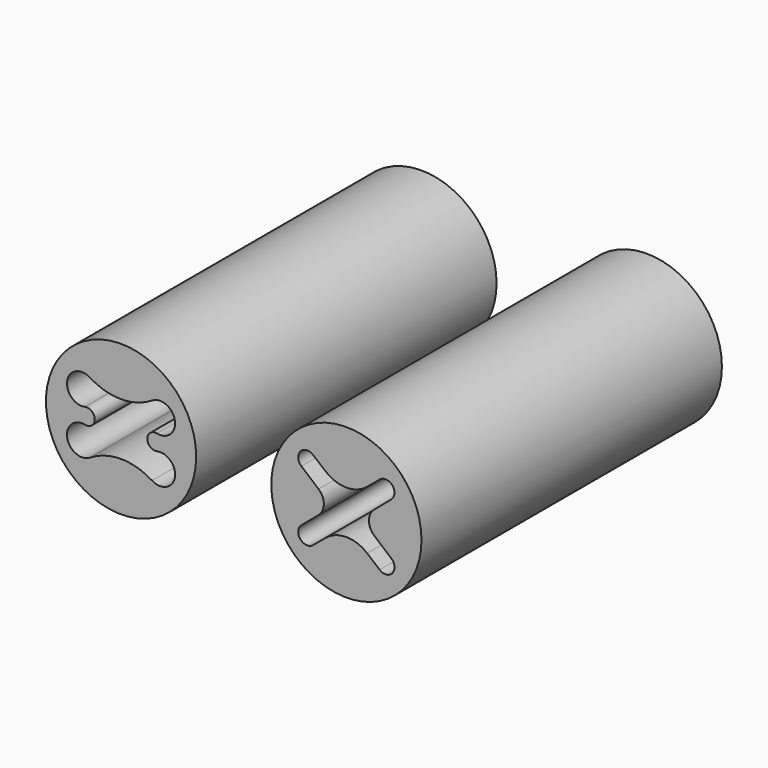
from build123d import *

# Parameters (mm, degrees)
F0_R     = 5
F1_DEPTH = 25


with BuildPart() as f1:
    # F0 (on Front) → F1 (new body)
    with BuildSketch(Plane.XZ):
        Circle(F0_R)
        with BuildLine():
            ThreePointArc((2.065138, 2.346154), (3.582374, 1.676514), (2.392373, 0.521385))
            ThreePointArc((2.392373, 0.521385), (1.75, 0), (2.392373, -0.521385))
            ThreePointArc((2.392373, -0.521385), (3.582374, -1.676514), (2.065138, -2.346154))
            ThreePointArc((2.065138, -2.346154), (0, -1.75), (-2.065138, -2.346154))
            ThreePointArc((-2.065138, -2.346154), (-3.582374, -1.676514), (-2.392373, -0.521385))
            ThreePointArc((-2.392373, -0.521385), (-1.75, 0), (-2.392373, 0.521385))
            ThreePointArc((-2.392373, 0.521385), (-3.582374, 1.676514), (-2.065138, 2.346154))
            ThreePointArc((-2.065138, 2.346154), (0, 1.75), (2.065138, 2.346154))
        make_face(mode=Mode.SUBTRACT)
        with Locations((15, 0)):
            Circle(F0_R)
        with BuildLine():
            Line((16.381591, 1.949199), (17.221034, 2.646905))
            ThreePointArc((17.221034, 2.646905), (18.064178, 2.57115), (17.992371, 1.727662))
            Line((17.992371, 1.727662), (16.853633, 0.763027))
            ThreePointArc((16.853633, 0.763027), (16.5, 0), (16.853633, -0.763027))
            Line((16.853633, -0.763027), (17.992371, -1.727662))
            ThreePointArc((17.992371, -1.727662), (18.064178, -2.57115), (17.221034, -2.646905))
            Line((17.221034, -2.646905), (16.381591, -1.949199))
            ThreePointArc((16.381591, -1.949199), (15, -1.45), (13.618409, -1.949199))
            Line((13.618409, -1.949199), (12.778966, -2.646905))
            ThreePointArc((12.778966, -2.646905), (11.935822, -2.57115), (12.007629, -1.727662))
            Line((12.007629, -1.727662), (13.146367, -0.763027))
            ThreePointArc((13.146367, -0.763027), (13.5, 0), (13.146367, 0.763027))
            Line((13.146367, 0.763027), (12.007629, 1.727662))
            ThreePointArc((12.007629, 1.727662), (11.935822, 2.57115), (12.778966, 2.646905))
            Line((12.778966, 2.646905), (13.618409, 1.949199))
            ThreePointArc((13.618409, 1.949199), (15, 1.45), (16.381591, 1.949199))
        make_face(mode=Mode.SUBTRACT)
    extrude(amount=F1_DEPTH)


solid = f1.part
